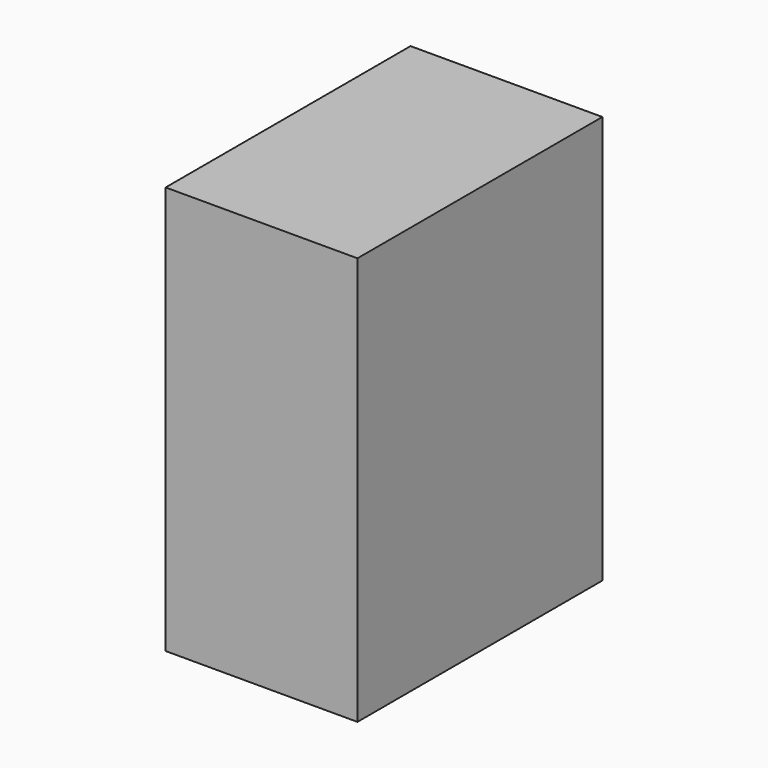
from build123d import *

# Parameters (mm, degrees)
F0_W     = 35.116635263
F0_H     = 34.8606705666
F1_DEPTH = 800
F2_DEPTH = 600
F3_DEPTH = 370
F4_T     = -18
F5_DEPTH = 6


with BuildPart() as f1:
    # F0 (on Top) → F1 (new body)
    with BuildSketch(Plane.XY):
        with Locations((-17.5583176315, -17.4303352833)):
            Rectangle(F0_W, F0_H)
    extrude(amount=F1_DEPTH)

    # F2 (add): a face of the model
    f2_faces = [f1.faces().sort_by_distance(p)[0] for p in [
        (-17.5583176315, 0, 400),
    ]]
    extrude(f2_faces, amount=-F2_DEPTH)

    # F3 (add): a face of the model
    f3_faces = [f1.faces().sort_by_distance(p)[0] for p in [
        (0, -300, 400),
    ]]
    extrude(f3_faces, amount=-F3_DEPTH)

    # F4
    f4_openings = [f1.faces().sort_by_distance(p)[0] for p in [
        (-370, -300, 400),
    ]]
    offset(amount=F4_T, openings=f4_openings)

    # F5 (add): a face of the model
    f5_faces = [f1.faces().sort_by_distance(p)[0] for p in [
        (0, -300, 400),
    ]]
    extrude(f5_faces, amount=F5_DEPTH)


solid = f1.part
